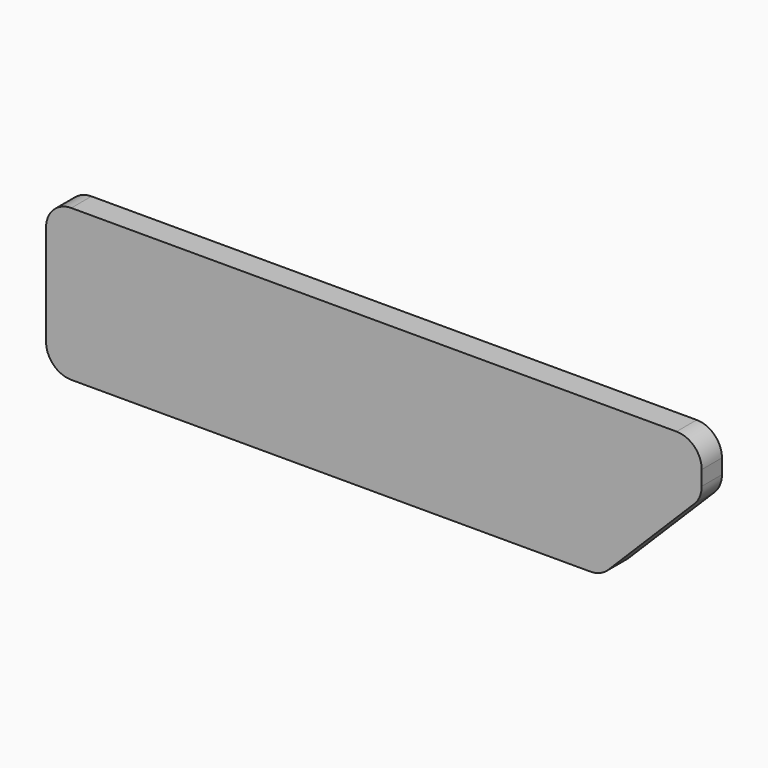
from build123d import *

# Parameters (mm, degrees)
F1_DEPTH = 6.35


with BuildPart() as f1:
    # F0 (on Front) → F1 (new body)
    with BuildSketch(Plane.XZ):
        with BuildLine():
            ThreePointArc((82.55, 12.7), (80.690128, 17.190128), (76.2, 19.05))
            Line((76.2, 19.05), (-76.2, 19.05))
            ThreePointArc((-76.2, 19.05), (-80.690128, 17.190128), (-82.55, 12.7))
            Line((-82.55, 12.7), (-82.55, -12.7))
            ThreePointArc((-82.55, -12.7), (-80.690128, -17.190128), (-76.2, -19.05))
            Line((-76.2, -19.05), (54.519744, -19.05))
            ThreePointArc((54.519744, -19.05), (56.949784, -18.566635), (59.009872, -17.190128))
            Line((59.009872, -17.190128), (80.690128, 4.490128))
            ThreePointArc((80.690128, 4.490128), (82.066635, 6.550216), (82.55, 8.980256))
            Line((82.55, 8.980256), (82.55, 12.7))
        make_face()
    extrude(amount=F1_DEPTH)


solid = f1.part
